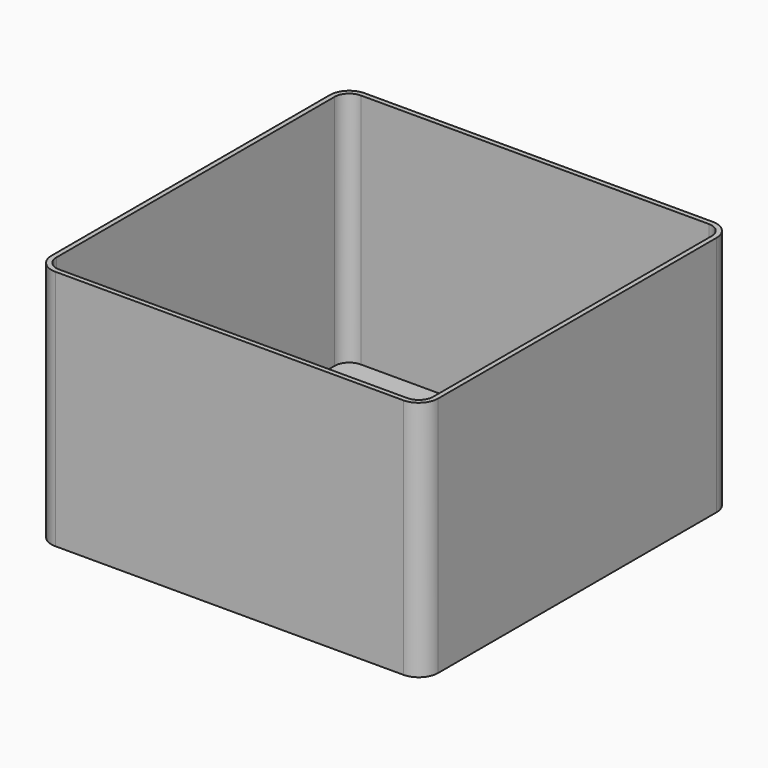
from build123d import *

# Parameters (mm, degrees)
F1_DEPTH = 50
F2_T     = -1
F3_R     = 6
F4_DEPTH = 1
F3_R_2   = 7.5
F6_DEPTH = 10


with BuildPart() as f1:
    # F0 (on Top) → F1 (new body)
    with BuildSketch(Plane.XY):
        with BuildLine():
            Line((57.163118, 69.629326), (-14.836882, 69.629326))
            ThreePointArc((-14.836882, 69.629326), (-17.665309, 68.457753), (-18.836882, 65.629326))
            Line((-18.836882, 65.629326), (-18.836882, -6.370674))
            ThreePointArc((-18.836882, -6.370674), (-17.665309, -9.199101), (-14.836882, -10.370674))
            Line((-14.836882, -10.370674), (57.163118, -10.370674))
            ThreePointArc((57.163118, -10.370674), (59.991545, -9.199101), (61.163118, -6.370674))
            Line((61.163118, -6.370674), (61.163118, 65.629326))
            ThreePointArc((61.163118, 65.629326), (59.991545, 68.457753), (57.163118, 69.629326))
        make_face()
    extrude(amount=F1_DEPTH)

    # F2
    f2_openings = [f1.faces().sort_by_distance(p)[0] for p in [
        (21.163118, 29.629326, 50),
    ]]
    offset(amount=F2_T, openings=f2_openings)

    # F3 (on face) → F4 (cut, through all)
    with BuildSketch(Plane.XY.offset(1)):
        with Locations((21.163118, 29.629326)):
            Circle(F3_R)
    extrude(amount=-F4_DEPTH, mode=Mode.SUBTRACT)

    # F3 (on face) → F6 (join)
    with BuildSketch(Plane.XY.offset(1)):
        with Locations((21.163118, 29.629326)):
            Circle(F3_R_2)
        with Locations((21.163118, 29.629326)):
            Circle(F3_R, mode=Mode.SUBTRACT)
    extrude(amount=F6_DEPTH)


solid = f1.part
